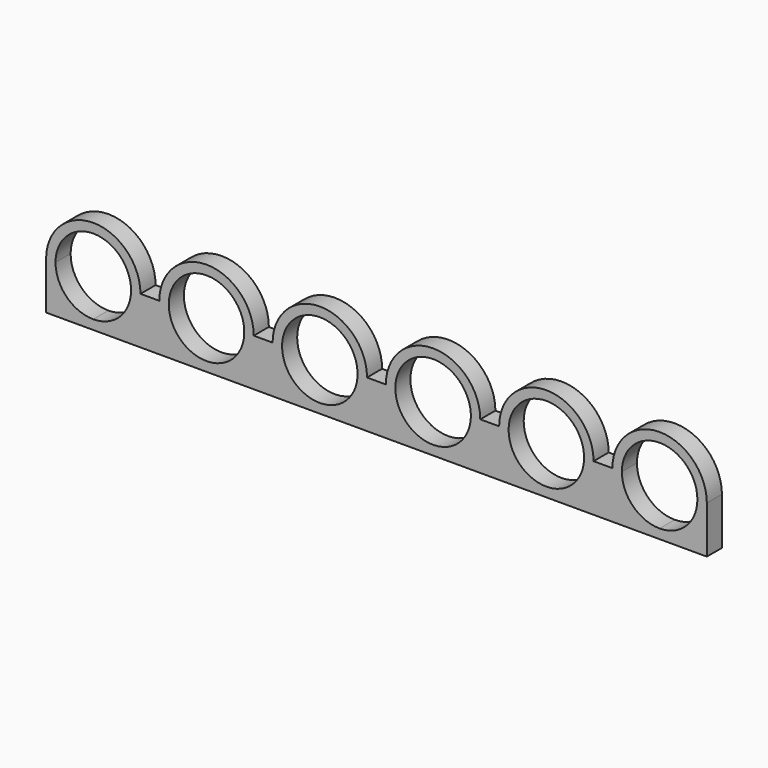
from build123d import *

# Parameters (mm, degrees)
F1_DEPTH = 3.175
F2_W     = 111.125
F2_H     = 1.5875
F3_DEPTH = 15.875
F4_W     = 111.125
F4_H     = 19.05
F5_DEPTH = 1.5748
F6_W     = 111.125
F6_H     = 3.1623
F7_DEPTH = 25.4


with BuildPart() as f1:
    # F0 (on Front) → F1 (new body)
    with BuildSketch(Plane.XZ):
        with BuildLine():
            ThreePointArc((0, -6.35), (-4.4901280605, -4.4901280605), (-6.35, 0))
            Line((-6.35, 0), (-7.9375, 0))
            ThreePointArc((-7.9375, 0), (-5.6126600757, -5.6126600757), (0, -7.9375))
            Line((0, -7.9375), (0, -6.35))
        make_face()
        with BuildLine():
            Line((-7.9375, 0), (-6.35, 0))
            ThreePointArc((-6.35, 0), (0, 6.35), (6.35, 0))
            Line((6.35, 0), (7.9375, 0))
            ThreePointArc((7.9375, 0), (0, 7.9375), (-7.9375, 0))
        make_face()
        with BuildLine():
            Line((7.9375, 0), (6.35, 0))
            ThreePointArc((6.35, 0), (4.4901280605, -4.4901280605), (0, -6.35))
            Line((0, -6.35), (0, -7.9375))
            ThreePointArc((0, -7.9375), (5.6126600757, -5.6126600757), (7.9375, 0))
        make_face()
        with BuildLine():
            ThreePointArc((0, -7.9375), (-5.6126600757, -5.6126600757), (-7.9375, 0))
            Line((-7.9375, 0), (-11.1125, 0))
            ThreePointArc((-11.1125, 0), (-13.4373399347, -5.6126600861), (-19.0500000294, -7.9375))
            Line((-19.0500000294, -7.9375), (0, -7.9375))
        make_face()
        with BuildLine():
            Line((7.9375, -7.9375), (7.9375, 0))
            ThreePointArc((7.9375, 0), (5.6126600757, -5.6126600757), (0, -7.9375))
            Line((0, -7.9375), (7.9375, -7.9375))
        make_face()
        Polygon((7.9375, -7.9375), (0, -7.9375), (-19.0500000294, -7.9375), (-38.1000000951, -7.9375), (-57.15, -7.9375), (-76.2, -7.9375), (-95.25, -7.9375), (-103.1875, -7.9375), (-103.1875, -9.525), (7.9375, -9.525), align=None)
        with BuildLine():
            ThreePointArc((-19.0500000294, -7.9375), (-13.4373399347, -5.6126600861), (-11.1125, 0))
            Line((-11.1125, 0), (-12.7, 0))
            ThreePointArc((-12.7, 0), (-19.05, -6.35), (-25.4, 0))
            Line((-25.4, 0), (-26.9875, 0))
            ThreePointArc((-26.9875, 0), (-24.6626600861, -5.6126600653), (-19.0500000294, -7.9375))
        make_face()
        with BuildLine():
            Line((-12.7, 0), (-11.1125, 0))
            ThreePointArc((-11.1125, 0), (-19.05, 7.9375), (-26.9875, 0))
            Line((-26.9875, 0), (-25.4, 0))
            ThreePointArc((-25.4, 0), (-19.05, 6.35), (-12.7, 0))
        make_face()
        with BuildLine():
            Line((-38.1000000951, -7.9375), (-19.0500000294, -7.9375))
            ThreePointArc((-19.0500000294, -7.9375), (-24.6626600861, -5.6126600653), (-26.9875, 0))
            Line((-26.9875, 0), (-30.1625, 0))
            ThreePointArc((-30.1625, 0), (-32.487339958, -5.6126601093), (-38.1000000951, -7.9375))
        make_face()
        with BuildLine():
            Line((-57.15, -7.9375), (-38.1000000951, -7.9375))
            ThreePointArc((-38.1000000951, -7.9375), (-43.7126601093, -5.612660042), (-46.0375, 0))
            Line((-46.0375, 0), (-49.2125, 0))
            ThreePointArc((-49.2125, 0), (-51.5373399243, -5.6126600757), (-57.15, -7.9375))
        make_face()
        with BuildLine():
            ThreePointArc((-46.0375, 0), (-43.7126601093, -5.612660042), (-38.1000000951, -7.9375))
            ThreePointArc((-38.1000000951, -7.9375), (-32.487339958, -5.6126601093), (-30.1625, 0))
            Line((-30.1625, 0), (-31.75, 0))
            ThreePointArc((-31.75, 0), (-38.1, -6.35), (-44.45, 0))
            Line((-44.45, 0), (-46.0375, 0))
        make_face()
        with BuildLine():
            Line((-31.75, 0), (-30.1625, 0))
            ThreePointArc((-30.1625, 0), (-38.1, 7.9375), (-46.0375, 0))
            Line((-46.0375, 0), (-44.45, 0))
            ThreePointArc((-44.45, 0), (-38.1, 6.35), (-31.75, 0))
        make_face()
        with BuildLine():
            Line((-76.2, -7.9375), (-57.15, -7.9375))
            ThreePointArc((-57.15, -7.9375), (-62.7626600757, -5.6126600757), (-65.0875, 0))
            Line((-65.0875, 0), (-68.2625, 0))
            ThreePointArc((-68.2625, 0), (-70.5873399243, -5.6126600757), (-76.2, -7.9375))
        make_face()
        with BuildLine():
            ThreePointArc((-65.0875, 0), (-62.7626600757, -5.6126600757), (-57.15, -7.9375))
            ThreePointArc((-57.15, -7.9375), (-51.5373399243, -5.6126600757), (-49.2125, 0))
            Line((-49.2125, 0), (-50.8, 0))
            ThreePointArc((-50.8, 0), (-57.15, -6.35), (-63.5, 0))
            Line((-63.5, 0), (-65.0875, 0))
        make_face()
        with BuildLine():
            Line((-103.1875, 0), (-103.1875, -7.9375))
            Line((-103.1875, -7.9375), (-95.25, -7.9375))
            ThreePointArc((-95.25, -7.9375), (-100.8626600757, -5.6126600757), (-103.1875, 0))
        make_face()
        with BuildLine():
            Line((-50.8, 0), (-49.2125, 0))
            ThreePointArc((-49.2125, 0), (-57.15, 7.9375), (-65.0875, 0))
            Line((-65.0875, 0), (-63.5, 0))
            ThreePointArc((-63.5, 0), (-57.15, 6.35), (-50.8, 0))
        make_face()
        with BuildLine():
            Line((-95.25, -7.9375), (-76.2, -7.9375))
            ThreePointArc((-76.2, -7.9375), (-81.8126600757, -5.6126600757), (-84.1375, 0))
            Line((-84.1375, 0), (-87.3125, 0))
            ThreePointArc((-87.3125, 0), (-89.6373399243, -5.6126600757), (-95.25, -7.9375))
        make_face()
        with BuildLine():
            ThreePointArc((-84.1375, 0), (-81.8126600757, -5.6126600757), (-76.2, -7.9375))
            ThreePointArc((-76.2, -7.9375), (-70.5873399243, -5.6126600757), (-68.2625, 0))
            Line((-68.2625, 0), (-69.85, 0))
            ThreePointArc((-69.85, 0), (-76.2, -6.35), (-82.55, 0))
            Line((-82.55, 0), (-84.1375, 0))
        make_face()
        with BuildLine():
            Line((-101.6, 0), (-103.1875, 0))
            ThreePointArc((-103.1875, 0), (-100.8626600757, -5.6126600757), (-95.25, -7.9375))
            Line((-95.25, -7.9375), (-95.25, -6.35))
            ThreePointArc((-95.25, -6.35), (-99.7401280605, -4.4901280605), (-101.6, 0))
        make_face()
        with BuildLine():
            ThreePointArc((-87.3125, 0), (-95.25, 7.9375), (-103.1875, 0))
            Line((-103.1875, 0), (-101.6, 0))
            ThreePointArc((-101.6, 0), (-95.25, 6.35), (-88.9, 0))
            Line((-88.9, 0), (-87.3125, 0))
        make_face()
        with BuildLine():
            Line((-95.25, -6.35), (-95.25, -7.9375))
            ThreePointArc((-95.25, -7.9375), (-89.6373399243, -5.6126600757), (-87.3125, 0))
            Line((-87.3125, 0), (-88.9, 0))
            ThreePointArc((-88.9, 0), (-90.7598719395, -4.4901280605), (-95.25, -6.35))
        make_face()
        with BuildLine():
            Line((-69.85, 0), (-68.2625, 0))
            ThreePointArc((-68.2625, 0), (-76.2, 7.9375), (-84.1375, 0))
            Line((-84.1375, 0), (-82.55, 0))
            ThreePointArc((-82.55, 0), (-76.2, 6.35), (-69.85, 0))
        make_face()
    extrude(amount=F1_DEPTH)

    # F2 (on face) → F3 (join)
    with BuildSketch(Plane.XZ.offset(3.175)):
        with Locations((-47.625, -8.73125)):
            Rectangle(F2_W, F2_H)
    extrude(amount=F3_DEPTH)

    # F4 (on face) → F5 (join)
    with BuildSketch(Plane(origin=(0, 0, -9.525), x_dir=(1, 0, 0), z_dir=(0, 0, -1))):
        with Locations((-47.625, 9.525)):
            Rectangle(F4_W, F4_H)
    extrude(amount=F5_DEPTH)

    # F6 (on face) → F7 (cut)
    with BuildSketch(Plane.XZ.offset(19.05)):
        with Locations((-47.625, -9.51865)):
            Rectangle(F6_W, F6_H)
    extrude(amount=-F7_DEPTH, mode=Mode.SUBTRACT)


solid = f1.part
